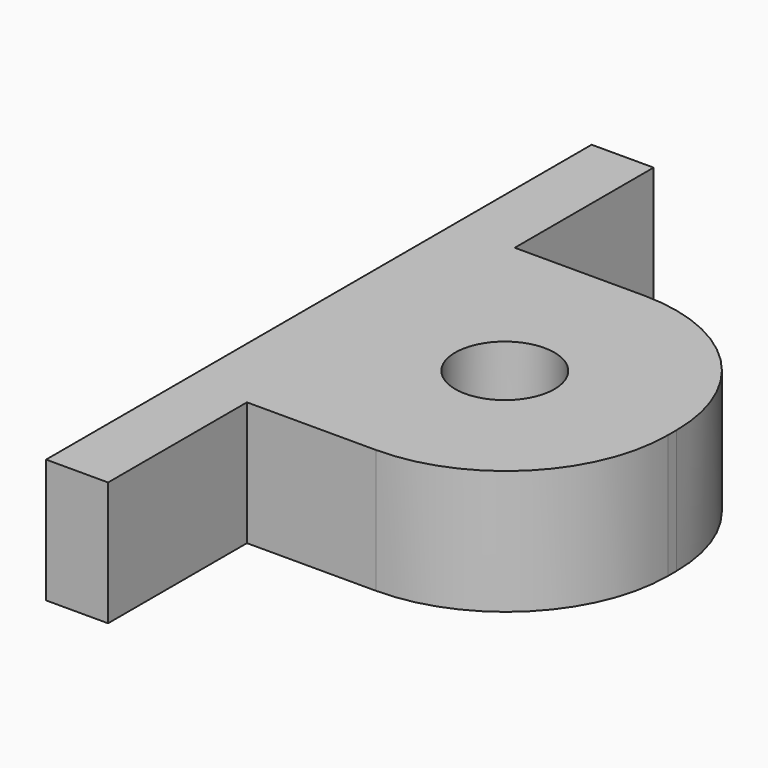
from build123d import *

# Parameters (mm, degrees)
SKETCH_R      = 4
EXTRUDE_DEPTH = 10


with BuildPart() as part:
    # Sketch → Extrude (new body)
    with BuildSketch(Plane.XY):
        with BuildLine():
            Line((18.316745, 55.716924), (18.316745, 0.716924))
            Line((18.316745, 0.716924), (23.316745, 0.716924))
            Line((23.316745, 0.716924), (23.316745, 14.716924))
            Line((23.316745, 14.716924), (33.741258, 14.716924))
            ThreePointArc((33.741258, 14.716924), (42.987024, 18.546645), (46.816745, 27.792411))
            Line((46.816745, 27.792411), (46.816745, 28.641436))
            ThreePointArc((46.816745, 28.641436), (42.987024, 37.887202), (33.741258, 41.716924))
            Line((33.741258, 41.716924), (23.316745, 41.716924))
            Line((23.316745, 41.716924), (23.316745, 55.716924))
            Line((23.316745, 55.716924), (18.316745, 55.716924))
        make_face()
        with Locations((33.316745, 28.216924)):
            Circle(SKETCH_R, mode=Mode.SUBTRACT)
    extrude(amount=EXTRUDE_DEPTH)


solid = part.part
